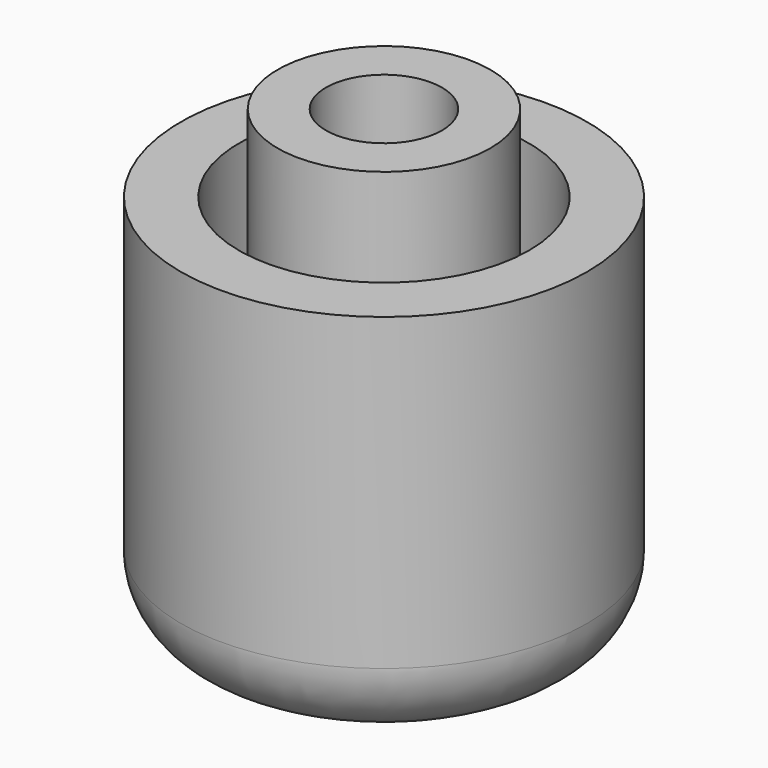
from build123d import *

# Parameters (mm, degrees)
F0_R      = 10.5
F0_R_2    = 7.5
F1_DEPTH  = 20
F2_DEPTH  = 4
F3_R      = 4
F4_R      = 5.5
F4_R_2    = 3
F5_DEPTH  = 20
F6_DEPTH  = 5
F7_R      = 1
F8_DEPTH  = 25
F10_R     = 3.8
F11_DEPTH = 2.5


with BuildPart() as f1:
    # F0 (on Top) → F1 (new body)
    with BuildSketch(Plane.XY):
        Circle(F0_R)
        Circle(F0_R_2, mode=Mode.SUBTRACT)
    extrude(amount=F1_DEPTH)

    # F0 (on Top) → F2 (join)
    with BuildSketch(Plane.XY):
        Circle(F0_R_2)
    extrude(amount=F2_DEPTH)

    # F3
    f3_edges = [f1.edges().sort_by_distance(p)[0] for p in [
        (-10.5, 0, 0),
    ]]
    fillet(f3_edges, radius=F3_R)

    # F4 (on face) → F5 (join)
    with BuildSketch(Plane.XY.offset(4)):
        Circle(F4_R)
        Circle(F4_R_2, mode=Mode.SUBTRACT)
    extrude(amount=F5_DEPTH)

    # F6 (add): a face of the model
    f6_faces = [f1.faces().sort_by_distance(p)[0] for p in [
        (-7.2878679656, 0, 4),
    ]]
    extrude(f6_faces, amount=F6_DEPTH)

    # F7 (on Front) → F8 (cut)
    with BuildSketch(Plane.XZ):
        with Locations((0, 7.2128833695)):
            Circle(F7_R)
    extrude(amount=-F8_DEPTH, mode=Mode.SUBTRACT)

    # F10 (on offset) → F11 (cut)
    with BuildSketch(Plane.XZ.offset(-10.52)):
        with Locations((0, 7.2339284234)):
            Circle(F10_R)
    extrude(amount=F11_DEPTH, mode=Mode.SUBTRACT)


solid = f1.part
